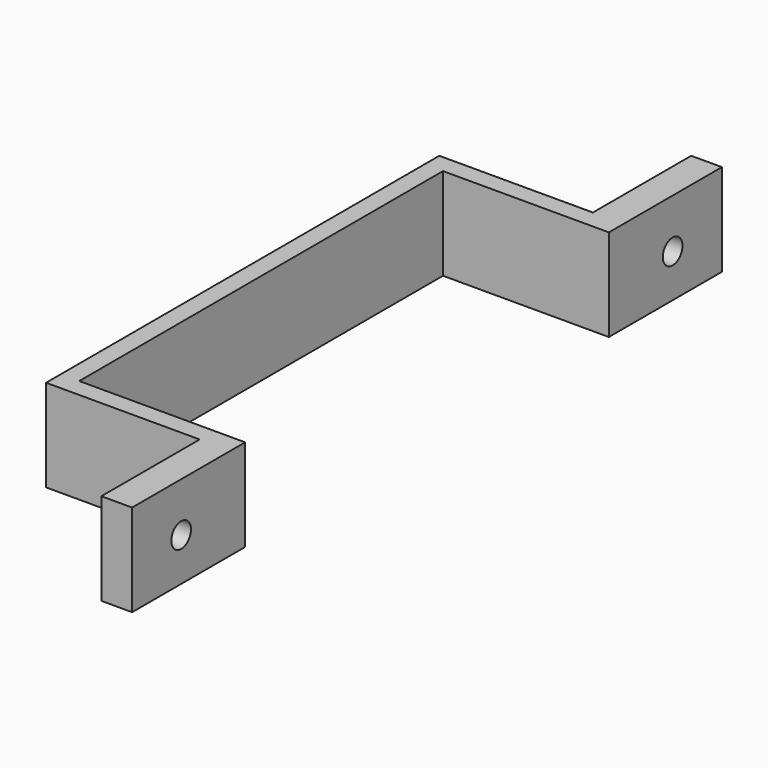
from build123d import *

# Parameters (mm, degrees)
PAD_DEPTH   = 15
SKETCH001_R = 2
HOLE_DEPTH  = 25


with BuildPart() as part:
    # Sketch → Pad (new body)
    with BuildSketch(Plane.XY):
        Polygon((-4.545808, 72.577977), (-4.545808, 52.577977), (-29.545808, 52.577977), (-29.545808, -27.422023), (-4.545808, -27.422023), (-4.545808, -47.422023), (0.454192, -47.422023), (0.454192, -24.422023), (-26.545808, -24.422023), (-26.545808, 49.577977), (0.454192, 49.577977), (0.454192, 72.577977), align=None)
    extrude(amount=PAD_DEPTH)

    # Sketch001 (on Face5 of Pad) → Hole (cut)
    with BuildSketch(Plane(origin=(-4.545808, 0, 0), x_dir=(0, -1, 0), z_dir=(-1, 0, 0))):
        with Locations((-62.553034, 7)):
            Circle(SKETCH001_R)
        with Locations((37.446966, 7)):
            Circle(SKETCH001_R)
    extrude(amount=-HOLE_DEPTH, mode=Mode.SUBTRACT)


solid = part.part
